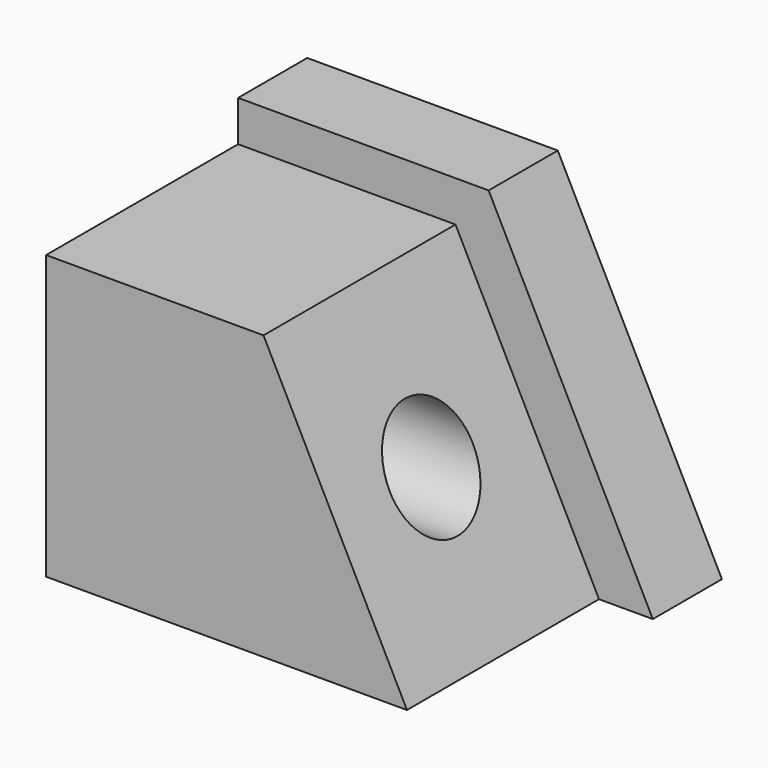
from build123d import *

# Parameters (mm, degrees)
F1_DEPTH = 9.144
F3_DEPTH = 25.4
F4_R     = 5.499555
F5_DEPTH = 43.892203


with BuildPart() as f1:
    # F0 (on Front) → F1 (new body)
    with BuildSketch(Plane.XZ):
        Polygon((0, 34.29), (0, 0), (43.891203, 0), (26.5176, 34.29), align=None)
    extrude(amount=-F1_DEPTH)

    # F2 (on Front) → F3 (join)
    with BuildSketch(Plane.XZ):
        Polygon((38.196363, 0), (23.010547, 29.972), (0, 29.972), (0, 0), align=None)
    extrude(amount=F3_DEPTH)

    # F4 (on face) → F5 (cut, through all)
    with BuildSketch(Plane(origin=(0, 0, 0), x_dir=(0, -1, 0), z_dir=(-1, 0, 0))):
        with Locations((12.7, 14.986)):
            Circle(F4_R)
    extrude(amount=-F5_DEPTH, mode=Mode.SUBTRACT)


solid = f1.part
